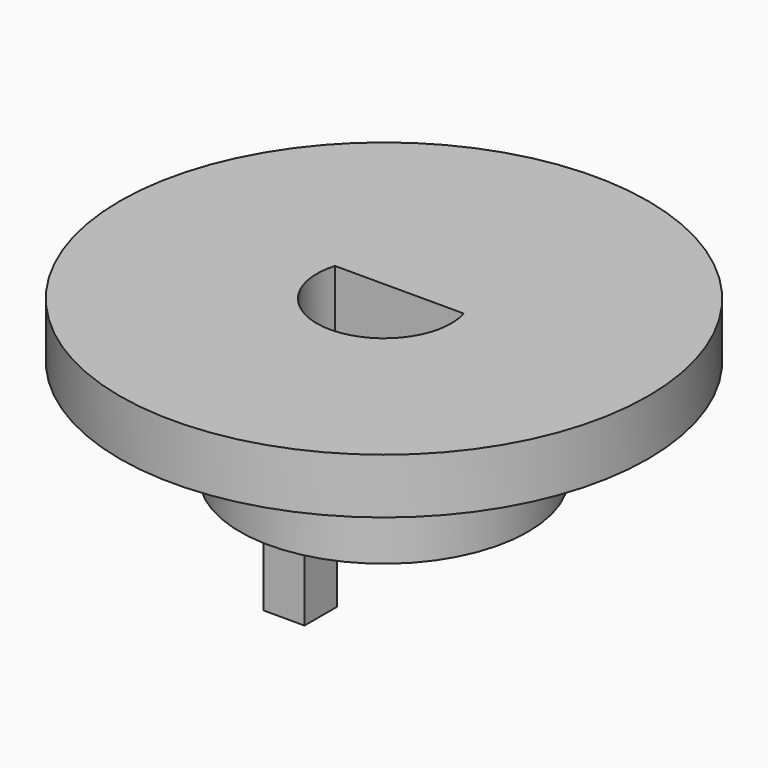
from build123d import *

# Parameters (mm, degrees)
SKETCH_R        = 11
PAD_DEPTH       = 6.6
SKETCH001_R     = 11
SKETCH001_R_2   = 6
POCKET_DEPTH    = 4.3
POCKET001_DEPTH = 6.601
SKETCH003_W     = 1.7
SKETCH003_H     = 1.7
PAD001_DEPTH    = 3
SKETCH004_W     = 2
SKETCH004_H     = 2
POCKET002_DEPTH = 4.3


with BuildPart() as part:
    # Sketch → Pad (new body)
    with BuildSketch(Plane.XY):
        Circle(SKETCH_R)
    extrude(amount=PAD_DEPTH)

    # Sketch001 → Pocket (cut)
    with BuildSketch(Plane(origin=(0, 0, 0), x_dir=(1, 0, 0), z_dir=(0, 0, -1))):
        Circle(SKETCH001_R)
        Circle(SKETCH001_R_2, mode=Mode.SUBTRACT)
    extrude(amount=-POCKET_DEPTH, mode=Mode.SUBTRACT)

    # Sketch002 → Pocket001 (cut, through all)
    with BuildSketch(Plane.XY.offset(6.6)):
        with BuildLine():
            Line((-2.683282, 0.8), (2.683282, 0.8))
            ThreePointArc((-2.683282, 0.8), (0, -2.8), (2.683282, 0.8))
        make_face()
    extrude(amount=-POCKET001_DEPTH, mode=Mode.SUBTRACT)

    # Sketch003 → Pad001 (new body)
    with BuildSketch(Plane(origin=(0, 0, 0), x_dir=(1, 0, 0), z_dir=(0, 0, -1))):
        with Locations((0, 4.35)):
            Rectangle(SKETCH003_W, SKETCH003_H)
        with Locations((0, -4.35)):
            Rectangle(SKETCH003_W, SKETCH003_H)
    extrude(amount=PAD001_DEPTH)

    # Sketch004 → Pocket002 (cut)
    with BuildSketch(Plane(origin=(0, 0, 0), x_dir=(1, 0, 0), z_dir=(0, 0, -1))):
        with Locations((-4.2, 0)):
            Rectangle(SKETCH004_W, SKETCH004_H)
        with Locations((4.2, 0)):
            Rectangle(SKETCH004_W, SKETCH004_H)
    extrude(amount=-POCKET002_DEPTH, mode=Mode.SUBTRACT)


solid = part.part
